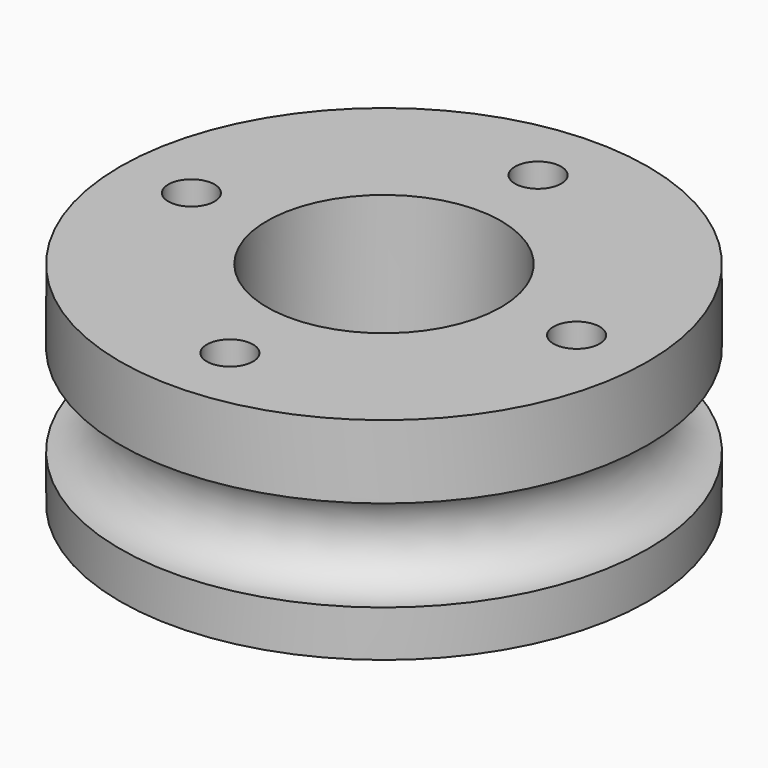
from build123d import *

# Parameters (mm, degrees)
F0_R     = 63.5
F0_R_2   = 28.1384603026
F1_DEPTH = 50.8
F2_R     = 11.0160883331
F4_R     = 5.5606419872
F5_DEPTH = 50.801


with BuildPart() as f1:
    # F0 (on Top) → F1 (new body)
    with BuildSketch(Plane.XY):
        Circle(F0_R)
        Circle(F0_R_2, mode=Mode.SUBTRACT)
    extrude(amount=F1_DEPTH)

    # F3: sweep along a path in F3_path
    with BuildLine(Plane(origin=(63.5, 0, 50.8), x_dir=(0, 1, 0), z_dir=(0, 0, 1))) as f3_path:
        CenterArc((0, 63.5), 63.5, 0, 360)
    # F2 (on Right) → F3 (sweep, cut)
    with BuildSketch(Plane.YZ):
        with Locations((63.3453205228, 22.1318639815)):
            Circle(F2_R)
    sweep(path=f3_path.line, mode=Mode.SUBTRACT)

    # F4 (on face) → F5 (cut, through all)
    with BuildSketch(Plane.XY.offset(50.8)):
        with Locations((0, -46.334028244)):
            Circle(F4_R)
        with Locations((46.334028244, 0)):
            Circle(F4_R)
        with Locations((0, 46.334028244)):
            Circle(F4_R)
        with Locations((-46.334028244, 0)):
            Circle(F4_R)
    extrude(amount=-F5_DEPTH, mode=Mode.SUBTRACT)


solid = f1.part
